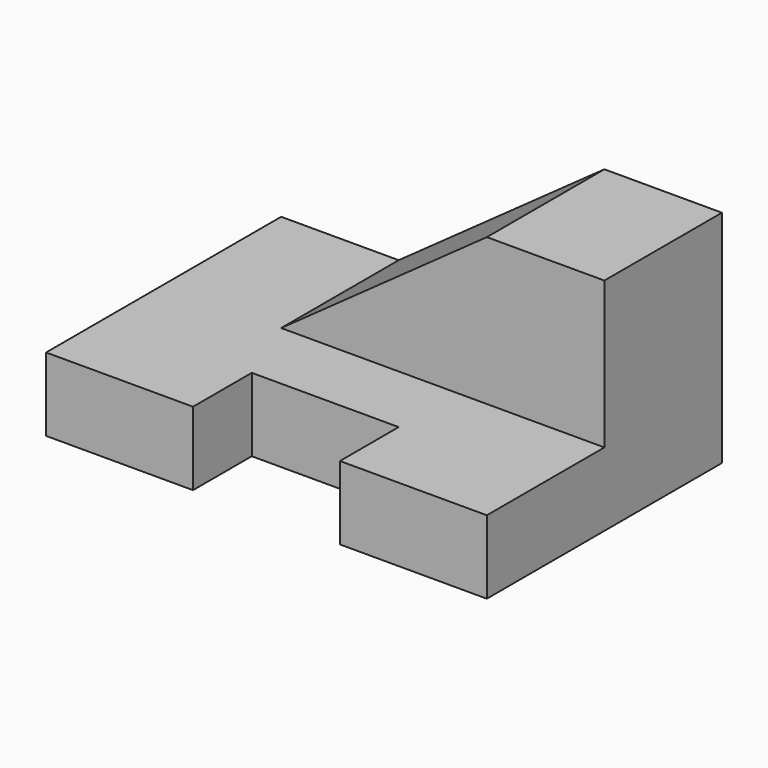
from build123d import *

# Parameters (mm, degrees)
F1_DEPTH = 12.7
F0_W     = 20.32
F0_H     = 25.4
F2_DEPTH = 38.1
F0_W_2   = 35.56
F3_DEPTH = 38.1
F5_DEPTH = 25.4


with BuildPart() as f1:
    # F0 (on Top) → F1 (new body)
    with BuildSketch(Plane.XY):
        Polygon((0, 50.8), (0, 0), (25.4, 0), (25.4, 12.7), (50.8, 12.7), (50.8, 0), (76.2, 0), (76.2, 25.4), (55.88, 25.4), (20.32, 25.4), (20.32, 50.8), align=None)
    extrude(amount=F1_DEPTH)

    # F0 (on Top) → F2 (join)
    with BuildSketch(Plane.XY):
        with Locations((66.04, 38.1)):
            Rectangle(F0_W, F0_H)
    extrude(amount=F2_DEPTH)

    # F0 (on Top) → F3 (join)
    with BuildSketch(Plane.XY):
        with Locations((38.1, 38.1)):
            Rectangle(F0_W_2, F0_H)
    extrude(amount=F3_DEPTH)

    # F4 (on face) → F5 (cut)
    with BuildSketch(Plane.XZ.offset(-25.4)):
        Polygon((20.32, 38.1), (20.32, 12.7), (55.88, 38.1), align=None)
    extrude(amount=-F5_DEPTH, mode=Mode.SUBTRACT)


solid = f1.part
